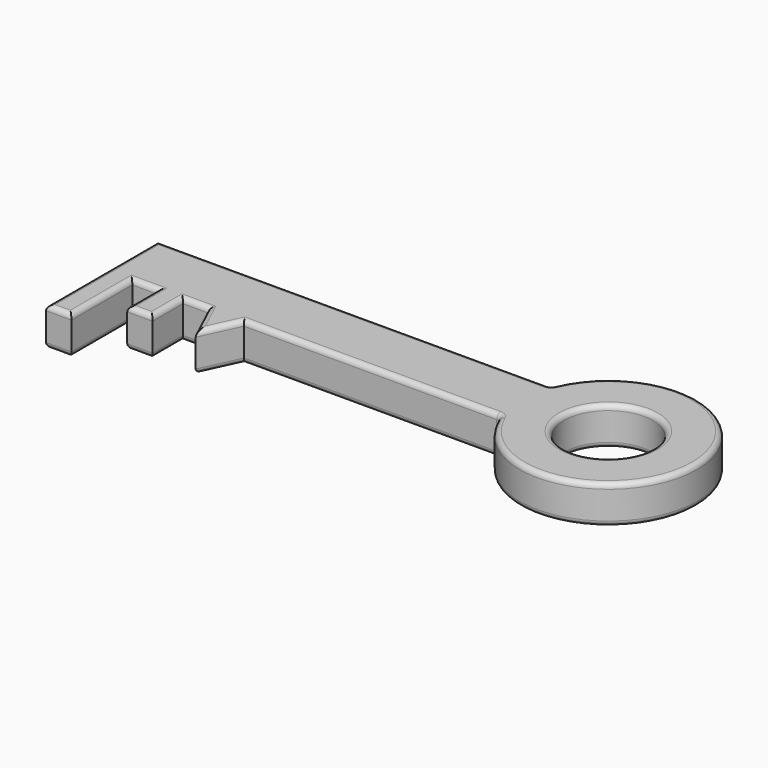
from build123d import *

# Parameters (mm, degrees)
F0_W     = 10
F0_H     = 15
F0_R     = 17.5
F0_H_2   = 30
F1_DEPTH = 15
F2_R     = 2


with BuildPart() as f1:
    # F0 (on Top) → F1 (new body)
    with BuildSketch(Plane.XY):
        Polygon((77.1682048372, 7.3511302126), (-77.8317951628, 7.3511302126), (-77.8317951628, -17.6488697874), (-67.8317951628, -17.6488697874), (-57.8317951628, -17.6488697874), (-47.8317951628, -17.6488697874), (-37.8317951628, -17.6488697874), (-23.8317951628, -17.6488697874), (77.1682048372, -17.6488697874), align=None)
        with Locations((-52.8317951628, -25.1488697874)):
            Rectangle(F0_W, F0_H)
        Polygon((-30.8317951628, -32.6488697874), (-23.8317951628, -17.6488697874), (-37.8317951628, -17.6488697874), align=None)
        with BuildLine():
            ThreePointArc((77.1682048372, -17.6488697874), (144.8599469138, -5.1488697874), (77.1682048372, 7.3511302126))
            Line((77.1682048372, 7.3511302126), (77.1682048372, -17.6488697874))
        make_face()
        with Locations((109.8599469138, -5.1488697874)):
            Circle(F0_R, mode=Mode.SUBTRACT)
        with Locations((-72.8317951628, -32.6488697874)):
            Rectangle(F0_W, F0_H_2)
    extrude(amount=F1_DEPTH)

    # F2
    f2_edges = [f1.edges().sort_by_distance(p)[0] for p in [
        (-0.331795, 7.35113, 0),
        (26.668205, -17.64887, 0),
        (-27.331795, -25.14887, 0),
        (-34.331795, -25.14887, 0),
        (-42.831795, -17.64887, 0),
        (-47.831795, -25.14887, 0),
        (-52.831795, -32.64887, 0),
        (-77.831795, -20.14887, 0),
        (-62.831795, -17.64887, 0),
        (-57.831795, -25.14887, 0),
        (-72.831795, -47.64887, 0),
        (-67.831795, -32.64887, 0),
        (77.168205, -17.64887, 7.5),
        (77.168205, 7.35113, 7.5),
        (144.859947, -5.14887, 0),
        (144.859947, -5.14887, 15),
        (92.359947, -5.14887, 0),
        (-0.331795, 7.35113, 15),
        (-77.831795, -20.14887, 15),
        (-72.831795, -47.64887, 15),
        (-67.831795, -32.64887, 15),
        (-62.831795, -17.64887, 15),
        (-57.831795, -25.14887, 15),
        (-52.831795, -32.64887, 15),
        (-47.831795, -25.14887, 15),
        (-42.831795, -17.64887, 15),
        (-34.331795, -25.14887, 15),
        (-27.331795, -25.14887, 15),
        (26.668205, -17.64887, 15),
        (92.359947, -5.14887, 15),
    ]]
    fillet(f2_edges, radius=F2_R)


solid = f1.part
